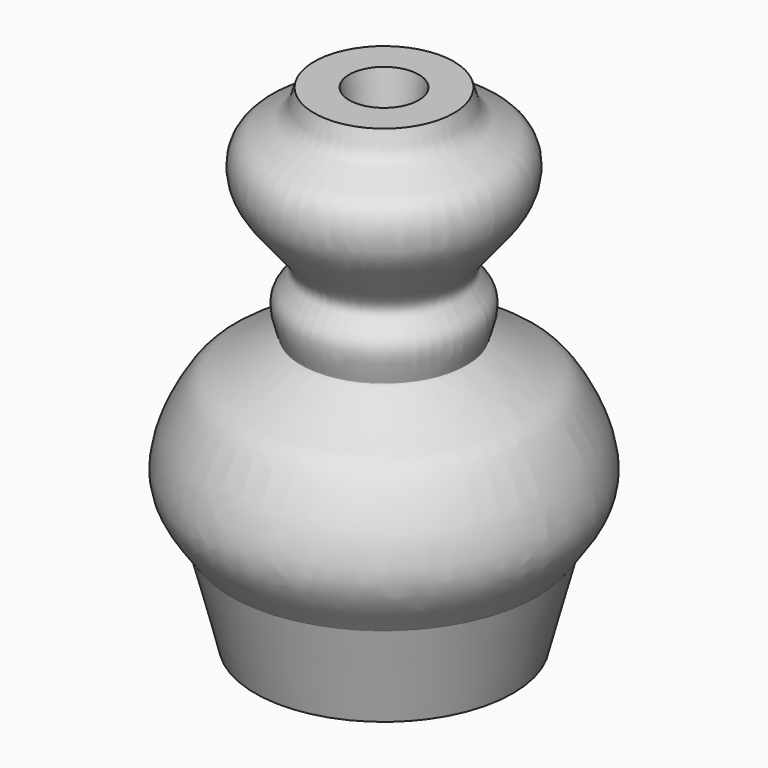
from build123d import *


with BuildPart() as f1:
    # F0 (on Front) → F1 (revolve)
    with BuildSketch(Plane.XZ):
        with BuildLine():
            Line((0, 86.4896178246), (0, 0))
            Line((0, 0), (27.4149738252, 0))
            Line((27.4149738252, 0), (32.5552821159, 19.7045169771))
            add(Edge.make_bspline(
                [(32.5552821159, 19.7045169771), (34.8965699585, 23.4399864405), (42.9747450127, 31.4572100576), (32.7694396809, 50.3797705639), (28.9048650486, 51.4118879862), (17.8428163188, 58.2682537453), (17.2933603393, 58.0336024893), (20.9834858513, 66.4823308049), (11.4760319207, 70.9491230618), (27.5402629663, 83.5106897158), (26.0421798508, 96.449577078), (16.4527228569, 98.0064811297), (15.348796973, 102.5361700443), (14.8497764021, 104.5196056366)],
                knots=[0, 0, 0, 0, 0.1182039526, 0.2501345658, 0.3237276883, 0.4314332083, 0.4435893366, 0.5273297623, 0.607345108, 0.7337216514, 0.835386199, 0.9234213644, 1, 1, 1, 1], degree=3))
            Line((14.8497764021, 104.5196056366), (7.3861717246, 104.5196056366))
            Line((7.3861717246, 104.5196056366), (5.1787388511, 86.4896178246))
            Line((5.1787388511, 86.4896178246), (0, 86.4896178246))
        make_face()
    revolve(axis=Axis((0, 0, 43.2448089123), (0, 0, -1)))


solid = f1.part
